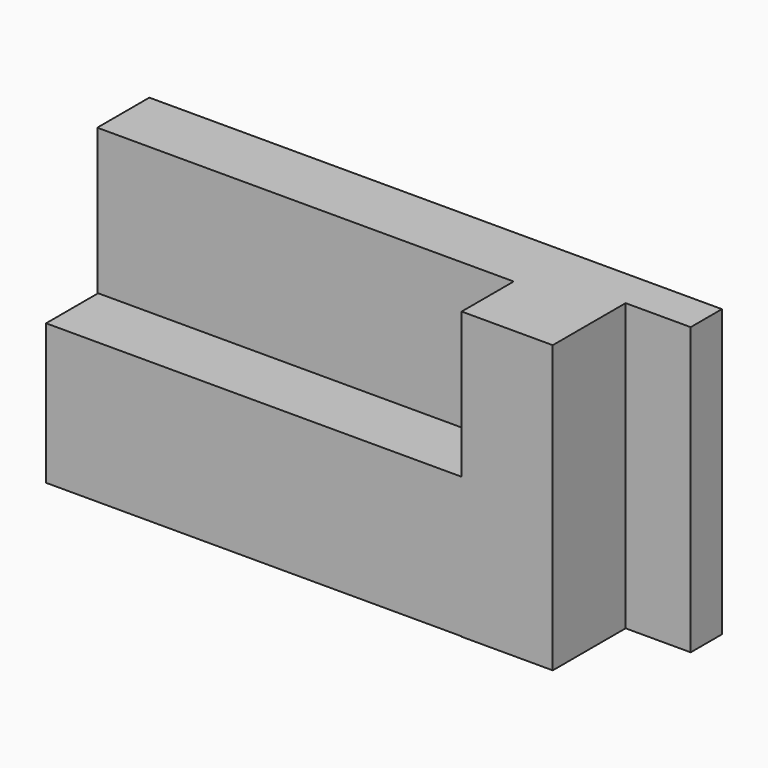
from build123d import *

# Parameters (mm, degrees)
F1_DEPTH = 69.85
F2_W     = 101.6
F2_H     = 34.268197
F3_DEPTH = 15.875
F4_W     = 22.225
F4_H     = 69.85
F5_DEPTH = 22.225


with BuildPart() as f1:
    # F0 (on Top) → F1 (new body)
    with BuildSketch(Plane.XY):
        Polygon((67.618918, 15.875), (-72.081082, 15.875), (-72.081082, 0), (23.168918, 0), (29.518918, 0), (29.518918, 6.35), (51.743918, 6.35), (67.618918, 6.35), align=None)
    extrude(amount=-F1_DEPTH)

    # F2 (on Front) → F3 (join)
    with BuildSketch(Plane.XZ):
        with Locations((-21.070717, -52.628895)):
            Rectangle(F2_W, F2_H)
    extrude(amount=F3_DEPTH)

    # F4 (on face) → F5 (join)
    with BuildSketch(Plane.XZ.offset(-6.35)):
        with Locations((40.631418, -34.925)):
            Rectangle(F4_W, F4_H)
    extrude(amount=F5_DEPTH)


solid = f1.part
